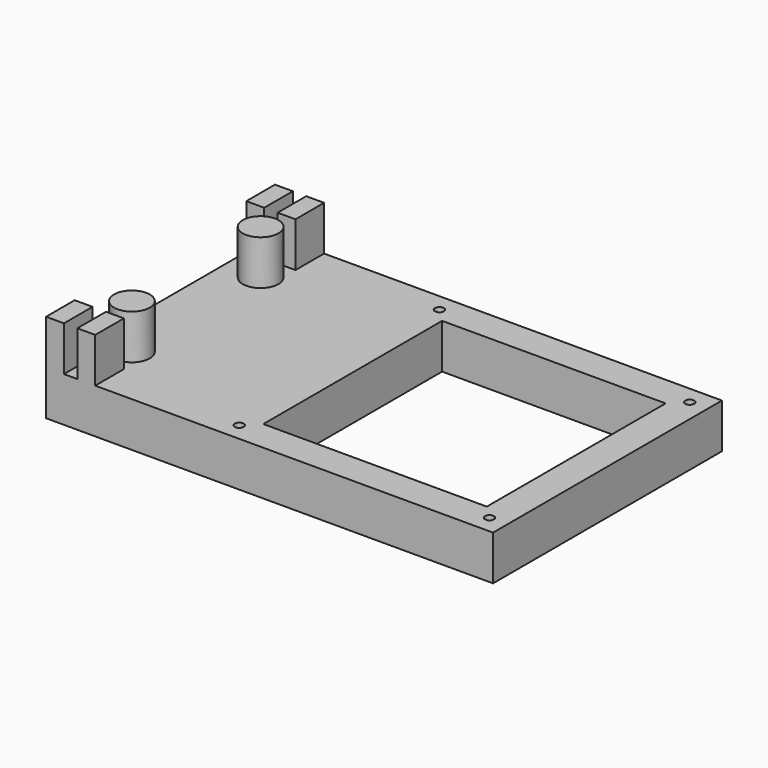
from build123d import *

# Parameters (mm, degrees)
F0_W     = 50
F0_H     = 32
F0_R     = 0.5
F0_W_2   = 25
F0_H_2   = 25
F1_DEPTH = 5
F2_W     = 2
F2_H     = 4
F2_R     = 2
F3_DEPTH = 5


with BuildPart() as f1:
    # F0 (on Top) → F1 (new body)
    with BuildSketch(Plane.XY):
        with Locations((25, 16)):
            Rectangle(F0_W, F0_H)
        with Locations((20, 2)):
            Circle(F0_R, mode=Mode.SUBTRACT)
        with Locations((48, 2)):
            Circle(F0_R, mode=Mode.SUBTRACT)
        with Locations((20, 30)):
            Circle(F0_R, mode=Mode.SUBTRACT)
        with Locations((34, 16)):
            Rectangle(F0_W_2, F0_H_2, mode=Mode.SUBTRACT)
        with Locations((48, 30)):
            Circle(F0_R, mode=Mode.SUBTRACT)
    extrude(amount=F1_DEPTH)

    # F2 (on face) → F3 (join)
    with BuildSketch(Plane.XY.offset(5)):
        with Locations((1, 30)):
            Rectangle(F2_W, F2_H)
        with Locations((4.5, 30)):
            Rectangle(F2_W, F2_H)
        with Locations((4, 25)):
            Circle(F2_R)
        with Locations((1, 2)):
            Rectangle(F2_W, F2_H)
        with Locations((4.5, 2)):
            Rectangle(F2_W, F2_H)
        with Locations((4, 7)):
            Circle(F2_R)
    extrude(amount=F3_DEPTH)


solid = f1.part
